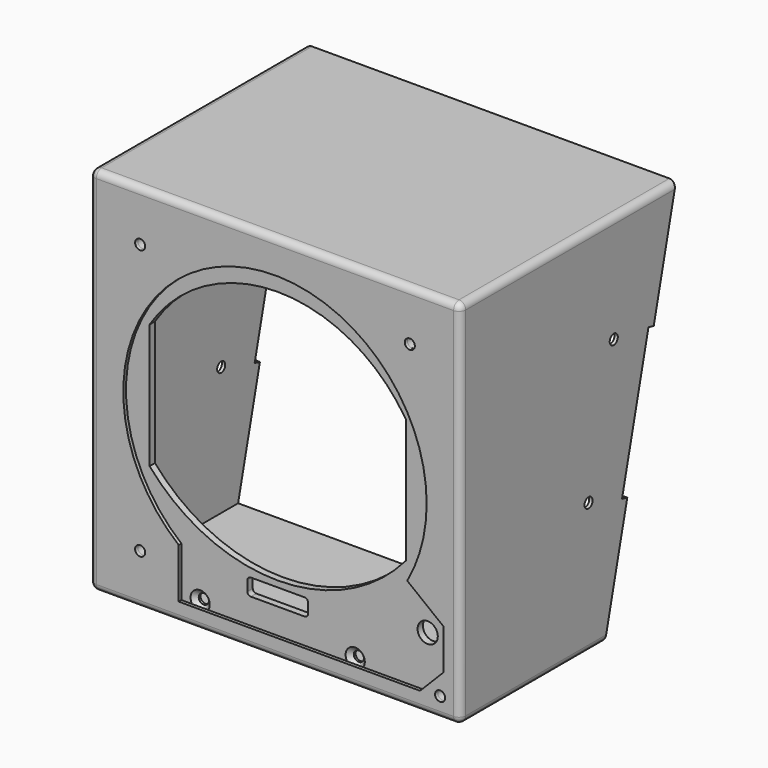
from build123d import *

# Parameters (mm, degrees)
F0_W            = 110
F0_H            = 110
F1_DEPTH        = 60
F2_T            = -1
F3_R            = 1.5
F4_DEPTH        = 110
F5_R            = 2
F6_R            = 1.5
F7_DEPTH        = 1
F8_W            = 106
F8_H            = 106
F8_R            = 1.5
F8_R_2          = 3
F9_DEPTH        = 2
F12_D           = 3
F12_CSINK_D     = 5.7
F12_CSINK_ANGLE = 90


with BuildPart() as f1:
    # F0 (on Front) → F1 (new body, symmetric)
    with BuildSketch(Plane.XZ):
        with Locations((-111.8381246924, 0)):
            Rectangle(F0_W, F0_H)
    extrude(amount=F1_DEPTH, both=True)

    # F2
    f2_openings = [f1.faces().sort_by_distance(p)[0] for p in [
        (-111.838125, 60, 0),
    ]]
    offset(amount=F2_T, openings=f2_openings)

    # F3 (on face) → F4 (cut)
    with BuildSketch(Plane(origin=(-166.8381246924, 0, 0), x_dir=(0, -1, 0), z_dir=(-1, 0, 0))):
        Polygon((-11.7126895831, 20.4808678259), (-20, 55), (-89.8332582524, 55), (-89.8332582524, -55), (6.4086634988, -55), (-1.9079843012, -20.3586688308), align=None)
        Polygon((-9.7679497423, 20.9477585536), (-11.7126895831, 20.4808678259), (-1.9079843012, -20.3586688308), (0.0367555396, -19.8917781031), align=None)
        with Locations((3.1063045867, 23.0101783633)):
            Circle(F3_R)
        with Locations((12.4441191409, -15.8846184526)):
            Circle(F3_R)
    extrude(amount=-F4_DEPTH, mode=Mode.SUBTRACT)

    # F5
    f5_edges = [f1.edges().sort_by_distance(p)[0] for p in [
        (-166.838125, -60, 0),
        (-166.838125, -20, 55),
        (-111.838125, -60, 55),
        (-56.838125, -60, 0),
        (-56.838125, -20, 55),
        (-111.838125, -60, -55),
        (-56.838125, -33.204332, -55),
        (-166.838125, -33.204332, -55),
    ]]
    fillet(f5_edges, radius=F5_R)

    # F6 (on face) → F7 (cut)
    with BuildSketch(Plane.XZ.offset(60)):
        with BuildLine():
            ThreePointArc((-72.5995414842, -22.0302879648), (-68.3022989602, -11.3855995808), (-66.8381246924, 0))
            ThreePointArc((-66.8381246924, 0), (-131.0705335784, 40.6830978226), (-140.3987668455, -34.7748432032))
            ThreePointArc((-140.3987668455, -34.7748432032), (-103.5248504668, -44.2254391911), (-72.5995414842, -22.0302879648))
        make_face()
        with BuildLine():
            ThreePointArc((-72.5995414842, -22.0302879648), (-103.5248504668, -44.2254391911), (-140.3987668455, -34.7748432032))
            Line((-140.3987668455, -34.7748432032), (-140.3987668455, -49.5418331784))
            Line((-140.3987668455, -49.5418331784), (-68.7907829881, -49.5418331784))
            Line((-68.7907829881, -49.5418331784), (-61.8381246924, -42.4792694113))
            Line((-61.8381246924, -42.4792694113), (-61.8381246924, -30.4792694113))
            Line((-61.8381246924, -30.4792694113), (-72.5995414842, -22.0302879648))
        make_face()
        with Locations((-151.8381246924, 40)):
            Circle(F6_R)
        with Locations((-71.8381246924, 40)):
            Circle(F6_R)
        with Locations((-151.8381246924, -40)):
            Circle(F6_R)
        with Locations((-62.8381246924, -49)):
            Circle(F6_R)
    extrude(amount=-F7_DEPTH, mode=Mode.SUBTRACT)


with BuildPart() as f9:
    # F8 (on face) → F9 (new body)
    with BuildSketch(Plane(origin=(0, -59, 0), x_dir=(-1, 0, 0), z_dir=(0, 1, 0))):
        with Locations((111.8381246924, 0)):
            Rectangle(F8_W, F8_H)
        with Locations((62.8381246924, -49)):
            Circle(F8_R, mode=Mode.SUBTRACT)
        with Locations((67.3356056213, -34.2727303505)):
            Circle(F8_R_2, mode=Mode.SUBTRACT)
        with BuildLine():
            ThreePointArc((102.8381246924, -37.9462198019), (103.1310179113, -37.2391130207), (103.8381246924, -36.9462198019))
            Line((103.8381246924, -36.9462198019), (119.8381246924, -36.9462198019))
            ThreePointArc((119.8381246924, -36.9462198019), (120.5452314736, -37.2391130207), (120.8381246924, -37.9462198019))
            Line((120.8381246924, -37.9462198019), (120.8381246924, -40.9462198019))
            ThreePointArc((120.8381246924, -40.9462198019), (120.5452314736, -41.6533265831), (119.8381246924, -41.9462198019))
            Line((119.8381246924, -41.9462198019), (103.8381246924, -41.9462198019))
            ThreePointArc((103.8381246924, -41.9462198019), (103.1310179113, -41.6533265831), (102.8381246924, -40.9462198019))
            Line((102.8381246924, -40.9462198019), (102.8381246924, -37.9462198019))
        make_face(mode=Mode.SUBTRACT)
        with Locations((151.8381246924, -40)):
            Circle(F8_R, mode=Mode.SUBTRACT)
        with Locations((71.8381246924, 40)):
            Circle(F8_R, mode=Mode.SUBTRACT)
        with BuildLine():
            Line((73.8381246924, -17.6337056415), (73.8381246924, 19.3662943585))
            ThreePointArc((73.8381246924, 19.3662943585), (111.8381246924, 40.2623527721), (149.8381246924, 19.3662943585))
            Line((149.8381246924, 19.3662943585), (149.8381246924, -17.6337056415))
            ThreePointArc((149.8381246924, -17.6337056415), (111.8381246924, -35.1375520229), (73.8381246924, -17.6337056415))
        make_face(mode=Mode.SUBTRACT)
        with Locations((151.8381246924, 40)):
            Circle(F8_R, mode=Mode.SUBTRACT)
    extrude(amount=F9_DEPTH)

    # F12 (through all)
    with Locations(Plane.XZ.offset(59)):
        with Locations((-134.8381246924, -48), (-88.8381246924, -48), (-159.8381246924, 48), (-63.8381246924, 48), (-159.8381246924, 0), (-63.8381246924, 0)):
            CounterSinkHole(F12_D / 2, F12_CSINK_D / 2, counter_sink_angle=F12_CSINK_ANGLE)


solid = Compound([f1.part, f9.part])
